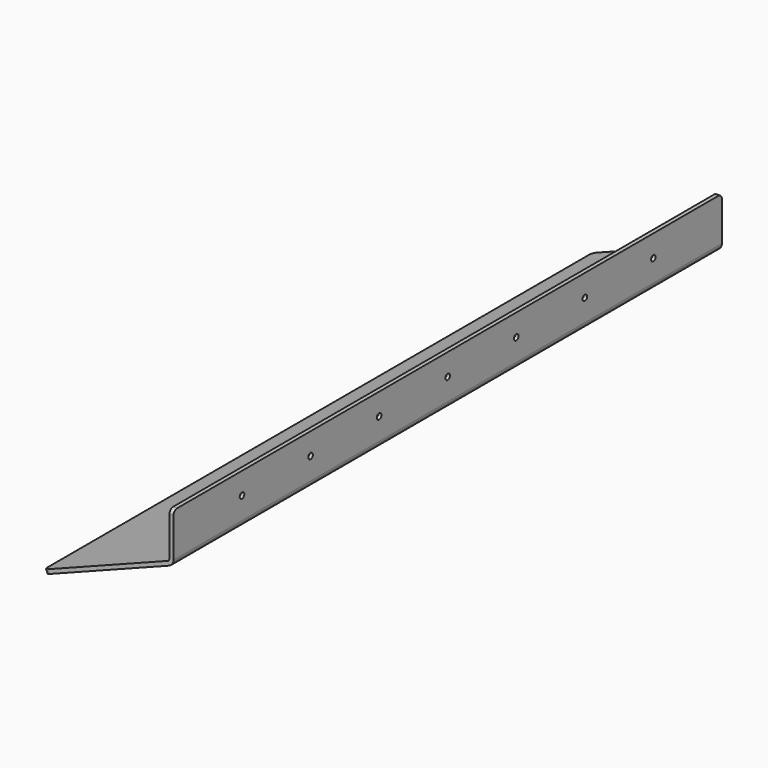
from build123d import *

# Parameters (mm, degrees)
F1_DEPTH       = 1200
F2_R           = 8
F4_D           = 3
F4_CSINK_D     = 10
F4_CSINK_ANGLE = 90


with BuildPart() as f1:
    # F0 (on Front) → F1 (new body)
    with BuildSketch(Plane.XZ):
        with BuildLine():
            Line((7, 80), (0, 80))
            Line((0, 80), (0, 3.428398))
            ThreePointArc((0, 3.428398), (-0.876289, 0.600854), (-3.198004, -1.235592))
            Line((-3.198004, -1.235592), (-220, -85))
            Line((-220, -85), (-217.477205, -91.529587))
            Line((-217.477205, -91.529587), (-0.675209, -7.765179))
            ThreePointArc((-0.675209, -7.765179), (4.896906, -3.357709), (7, 3.428398))
            Line((7, 3.428398), (7, 80))
        make_face()
    extrude(amount=F1_DEPTH)

    # F2
    f2_edges = [f1.edges().sort_by_distance(p)[0] for p in [
        (3.5, -1200, 80),
        (3.5, 0, 80),
        (-218.738603, 0, -88.264793),
        (-218.738603, -1200, -88.264793),
    ]]
    fillet(f2_edges, radius=F2_R)

    # F4 (through all)
    with Locations(Plane.YZ.offset(7)):
        with Locations((-900, 41.714199), (-1050, 41.714199), (-750, 41.714199), (-600, 41.714199), (-450, 41.714199), (-300, 41.714199), (-150, 41.714199)):
            CounterSinkHole(F4_D / 2, F4_CSINK_D / 2, counter_sink_angle=F4_CSINK_ANGLE)


solid = f1.part
